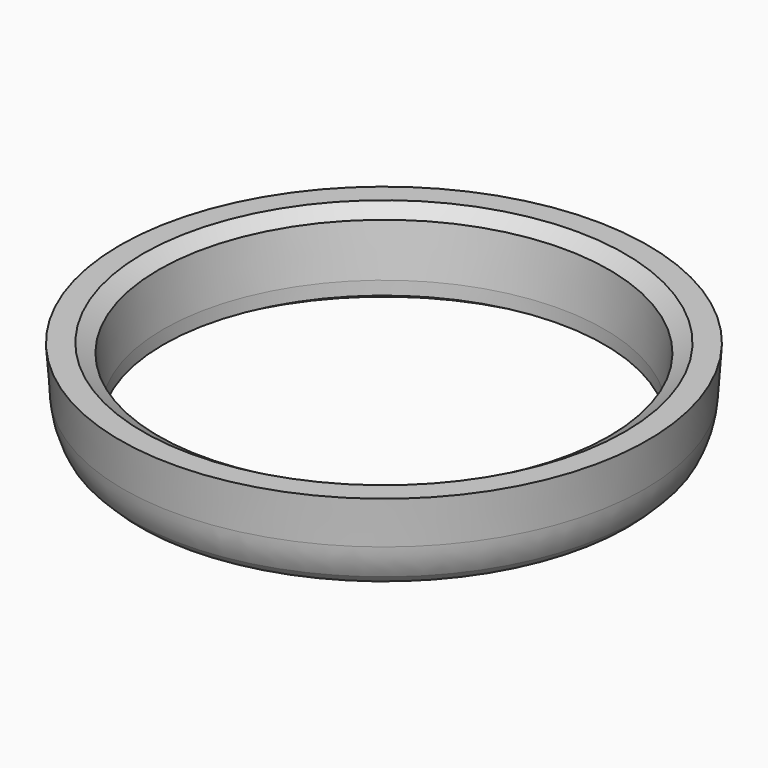
from build123d import *


with BuildPart() as f1:
    # F0 (on Front) → F1 (revolve)
    with BuildSketch(Plane.XZ):
        with BuildLine():
            Line((-167.292217, 0), (-163.496135, 0))
            Line((-163.496135, 0), (-151.436196, 6.962809))
            Line((-151.436196, 6.962809), (-151.436196, 16.267849))
            Line((-151.436196, 16.267849), (-154.785857, 51.055411))
            Line((-154.785857, 51.055411), (-165.562099, 57.277077))
            Line((-165.562099, 57.277077), (-181.321926, 57.277077))
            Line((-181.321926, 57.277077), (-179.206537, 27.0256))
            ThreePointArc((-179.206537, 27.0256), (-177.29105, 16.131686), (-173.162321, 5.870105))
            Line((-173.162321, 5.870105), (-167.292217, 0))
        make_face()
    revolve(axis=Axis((0, 0, 30.320982), (0, 0, 1)))


solid = f1.part
